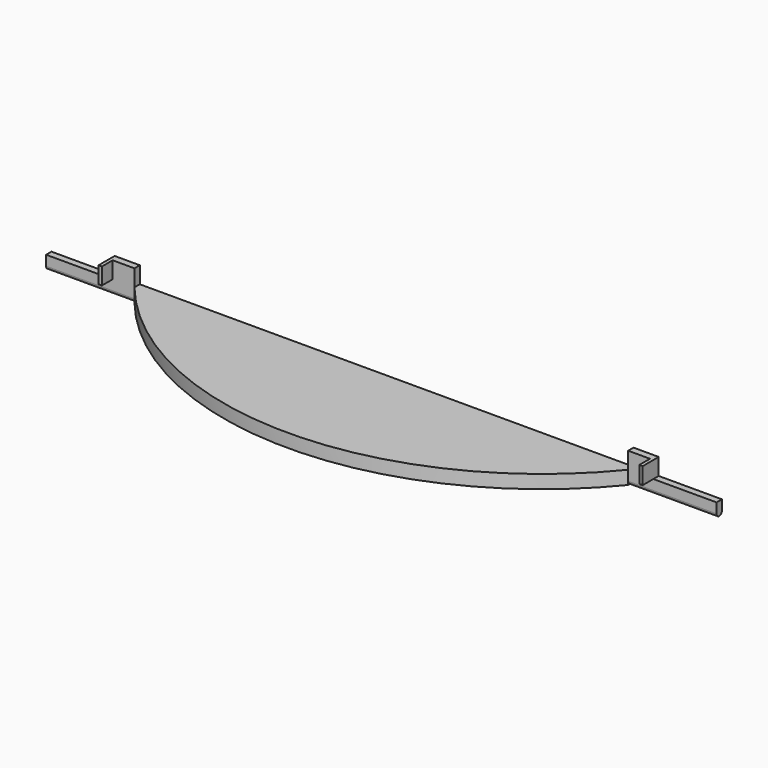
from build123d import *

# Parameters (mm, degrees)
F1_DEPTH = 20
F3_DEPTH = 131.803615
F5_DEPTH = 131.803615
F6_W     = 5
F6_H     = 20
F7_DEPTH = 25


with BuildPart() as f1:
    # F0 (on Top) → F1 (new body)
    with BuildSketch(Plane.XY):
        with BuildLine():
            Line((-368.272997, -290), (-368.272997, -300))
            ThreePointArc((-368.272997, -300), (0, -475), (368.272997, -300))
            Line((368.272997, -300), (368.272997, -290))
            Line((368.272997, -290), (-368.272997, -290))
        make_face()
    extrude(amount=F1_DEPTH)

    # F2 (on face) → F3 (join)
    with BuildSketch(Plane.YZ.offset(368.272997)):
        with BuildLine():
            Line((-300, 20), (-300, 5))
            ThreePointArc((-300, 5), (-295, 0), (-290, 5))
            Line((-290, 5), (-290, 20))
            Line((-290, 20), (-300, 20))
        make_face()
    extrude(amount=F3_DEPTH)

    # F4 (on face) → F5 (join)
    with BuildSketch(Plane(origin=(-368.272997, 0, 0), x_dir=(0, -1, 0), z_dir=(-1, 0, 0))):
        with BuildLine():
            Line((290, 20), (290, 5))
            ThreePointArc((290, 5), (291.464466, 1.464466), (295, 0))
            ThreePointArc((295, 0), (298.535534, 1.464466), (300, 5))
            Line((300, 5), (300, 20))
            Line((300, 20), (290, 20))
        make_face()
    extrude(amount=F5_DEPTH)

    # F6 (on face) → F7 (join)
    with BuildSketch(Plane.XY.offset(20)):
        Polygon((-368.272997, -290), (-405.772997, -290), (-405.772997, -300), (-400.772997, -300), (-368.272997, -300), align=None)
        with Locations((-403.272997, -310)):
            Rectangle(F6_W, F6_H)
        Polygon((405.772997, -290), (368.272997, -290), (368.272997, -300), (400.772997, -300), (405.772997, -300), align=None)
        with Locations((403.272997, -310)):
            Rectangle(F6_W, F6_H)
    extrude(amount=F7_DEPTH)


solid = f1.part
